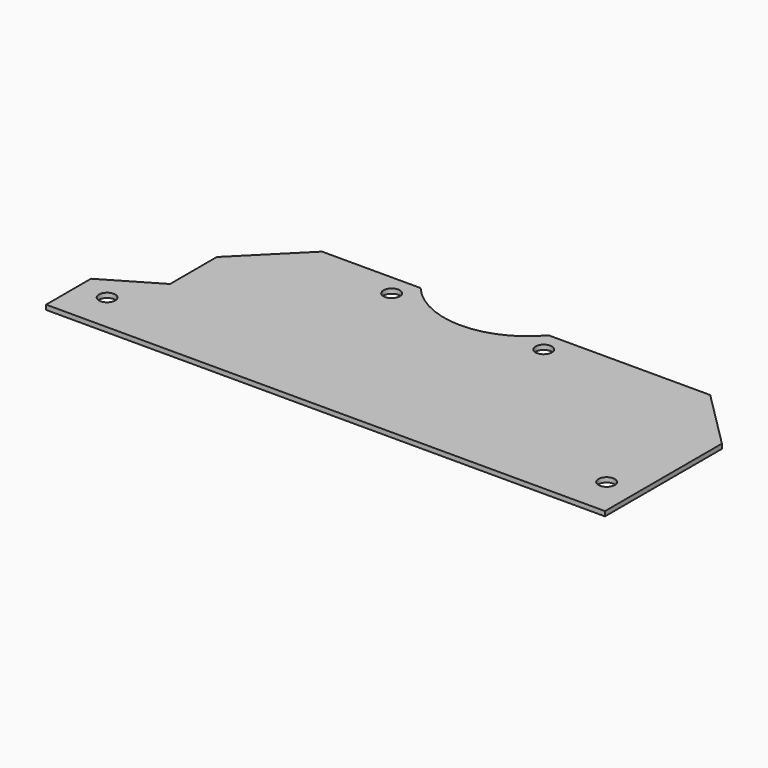
from build123d import *

# Parameters (mm, degrees)
F0_R     = 7
F1_DEPTH = 2


with BuildPart() as f1:
    # F0 (on Top) → F1 (new body, symmetric)
    with BuildSketch(Plane.XY):
        with BuildLine():
            Line((-58.738012, 87.5), (-143, 87.5))
            Line((-143, 87.5), (-193, 37.5))
            Line((-193, 37.5), (-193, -12.5))
            Line((-193, -12.5), (-239, -39.5))
            Line((-239, -39.5), (-239, -87.5))
            Line((-239, -87.5), (239, -87.5))
            Line((239, -87.5), (239, 37.5))
            Line((239, 37.5), (189, 87.5))
            Line((189, 87.5), (50.738012, 87.5))
            ThreePointArc((50.738012, 87.5), (-4, 62), (-58.738012, 87.5))
        make_face()
        with Locations((-213.6, -54)):
            Circle(F0_R, mode=Mode.SUBTRACT)
        with Locations((213.6, -54)):
            Circle(F0_R, mode=Mode.SUBTRACT)
        with Locations((-69, 69.5)):
            Circle(F0_R, mode=Mode.SUBTRACT)
        with Locations((61, 69.5)):
            Circle(F0_R, mode=Mode.SUBTRACT)
    extrude(amount=F1_DEPTH, both=True)


solid = f1.part
